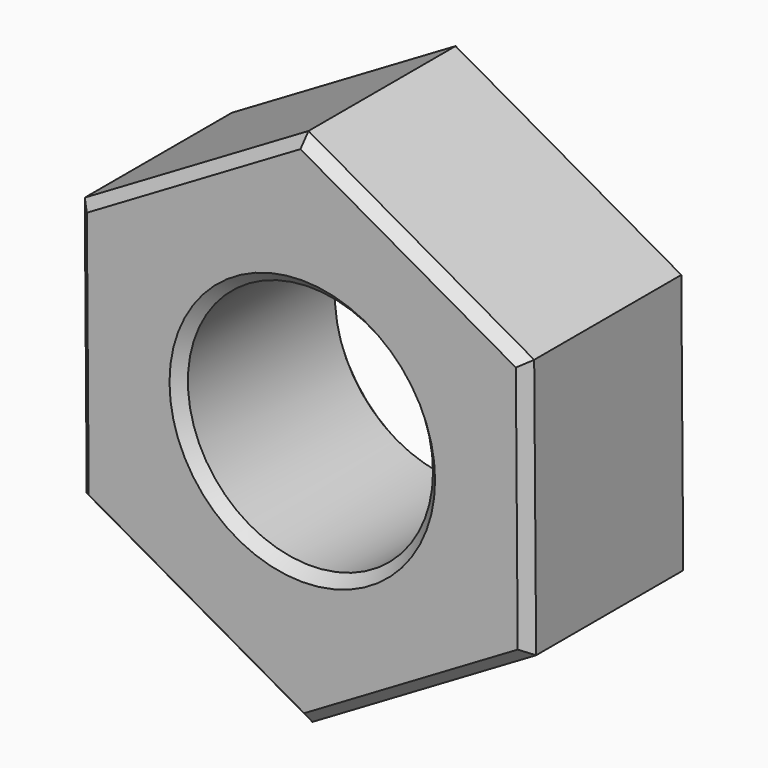
from build123d import *

# Parameters (mm, degrees)
F0_R     = 6
F1_DEPTH = 10
F2_SIZE  = 0.5


with BuildPart() as f1:
    # F0 (on Front) → F1 (new body)
    with BuildSketch(Plane.XZ):
        Polygon((-0.095734, 12.701345), (-11.047555, 6.267764), (-10.951821, -6.433581), (0.095734, -12.701345), (11.047555, -6.267764), (10.951821, 6.433581), align=None)
        Circle(F0_R, mode=Mode.SUBTRACT)
    extrude(amount=F1_DEPTH)

    # F2
    f2_edges = [f1.edges().sort_by_distance(p)[0] for p in [
        (5.428043, 0, 9.567463),
        (-5.571644, 0, 9.484555),
        (-10.999688, 0, -0.082908),
        (-5.428043, 0, -9.567463),
        (5.571644, 0, -9.484555),
        (10.999688, 0, 0.082908),
        (5.428043, -10, 9.567463),
        (-5.571644, -10, 9.484555),
        (-10.999688, -10, -0.082908),
        (-5.428043, -10, -9.567463),
        (5.571644, -10, -9.484555),
        (10.999688, -10, 0.082908),
        (-6, -10, 0),
        (-6, 0, 0),
    ]]
    chamfer(f2_edges, length=F2_SIZE)


solid = f1.part
